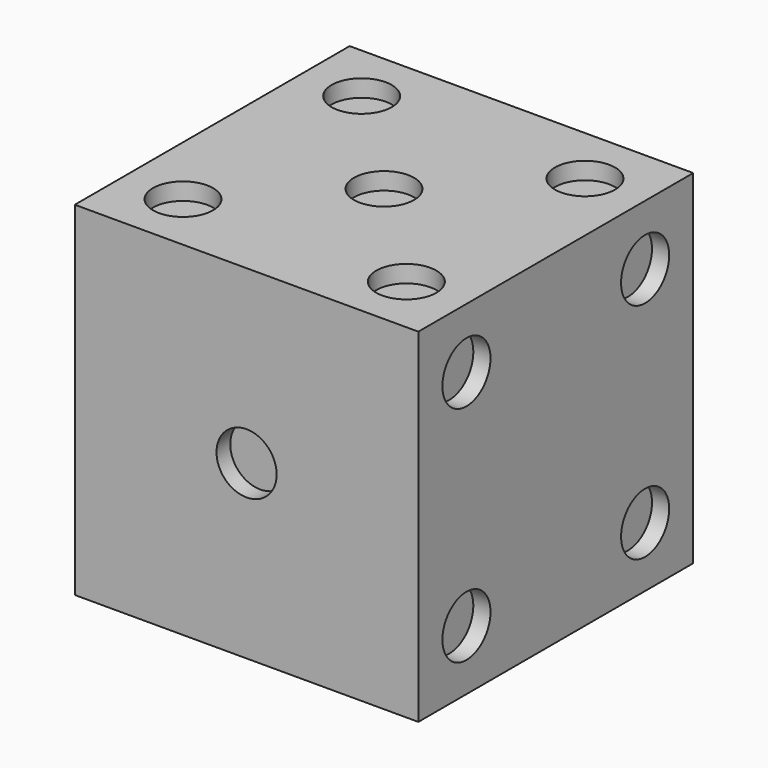
from build123d import *

# Parameters (mm, degrees)
F0_W      = 127
F0_H      = 127
F1_DEPTH  = 127
F2_R      = 11.1125
F3_DEPTH  = 6.35
F4_R      = 11.1125
F6_DEPTH  = 6.35
F7_DEPTH  = 25.4
F5_R      = 11.1125
F8_DEPTH  = 6.35
F9_DEPTH  = 6.35
F10_R     = 11.1125
F11_DEPTH = 6.35
F13_R     = 11.1125
F14_DEPTH = 6.35
F12_R     = 11.1125
F15_DEPTH = 6.35


with BuildPart() as f1:
    # F0 (on Top) → F1 (new body)
    with BuildSketch(Plane.XY):
        with Locations((-24.36945, 11.884371)):
            Rectangle(F0_W, F0_H)
    extrude(amount=F1_DEPTH)

    # F2 (on face) → F3 (cut)
    with BuildSketch(Plane.XZ.offset(51.615629)):
        with Locations((-24.36945, 63.5)):
            Circle(F2_R)
    extrude(amount=-F3_DEPTH, mode=Mode.SUBTRACT)

    # F4 (on face) → F6 (cut)
    with BuildSketch(Plane(origin=(-87.86945, 0, 0), x_dir=(0, -1, 0), z_dir=(-1, 0, 0))):
        with Locations((29.390629, 104.775)):
            Circle(F4_R)
    extrude(amount=-F6_DEPTH, mode=Mode.SUBTRACT)

    # F4 (on face) → F7 (cut)
    with BuildSketch(Plane(origin=(-87.86945, 0, 0), x_dir=(0, -1, 0), z_dir=(-1, 0, 0))):
        with Locations((-11.884371, 63.5)):
            Circle(F4_R)
        with Locations((29.390629, 104.775)):
            Circle(F4_R)
        with Locations((-53.159371, 22.225)):
            Circle(F4_R)
    extrude(amount=-F7_DEPTH, mode=Mode.SUBTRACT)

    # F5 (on face) → F8 (cut)
    with BuildSketch(Plane.XY.offset(127)):
        with Locations((16.90555, -29.390629)):
            Circle(F5_R)
        with Locations((16.90555, 53.159371)):
            Circle(F5_R)
        with Locations((-65.64445, 53.159371)):
            Circle(F5_R)
        with Locations((-65.64445, -29.390629)):
            Circle(F5_R)
    extrude(amount=-F8_DEPTH, mode=Mode.SUBTRACT)

    # F5 (on face) → F9 (cut)
    with BuildSketch(Plane.XY.offset(127)):
        with Locations((-24.36945, 11.884371)):
            Circle(F5_R)
    extrude(amount=-F9_DEPTH, mode=Mode.SUBTRACT)

    # F10 (on face) → F11 (cut)
    with BuildSketch(Plane(origin=(0, 75.384371, 0), x_dir=(-1, 0, 0), z_dir=(0, 1, 0))):
        with Locations((-16.90555, 104.775)):
            Circle(F10_R)
        with Locations((-16.90555, 63.5)):
            Circle(F10_R)
        with Locations((-16.90555, 22.225)):
            Circle(F10_R)
        with Locations((65.64445, 22.225)):
            Circle(F10_R)
        with Locations((65.64445, 63.5)):
            Circle(F10_R)
        with Locations((65.64445, 104.775)):
            Circle(F10_R)
    extrude(amount=-F11_DEPTH, mode=Mode.SUBTRACT)

    # F13 (on face) → F14 (cut)
    with BuildSketch(Plane.YZ.offset(39.13055)):
        with Locations((53.159371, 104.775)):
            Circle(F13_R)
        with Locations((53.159371, 22.225)):
            Circle(F13_R)
        with Locations((-29.390629, 22.225)):
            Circle(F13_R)
        with Locations((-29.390629, 104.775)):
            Circle(F13_R)
    extrude(amount=-F14_DEPTH, mode=Mode.SUBTRACT)

    # F12 (on face) → F15 (cut)
    with BuildSketch(Plane(origin=(0, 0, 0), x_dir=(1, 0, 0), z_dir=(0, 0, -1))):
        with Locations((-65.64445, -53.159371)):
            Circle(F12_R)
        with Locations((16.90555, 29.390629)):
            Circle(F12_R)
    extrude(amount=-F15_DEPTH, mode=Mode.SUBTRACT)


solid = f1.part
